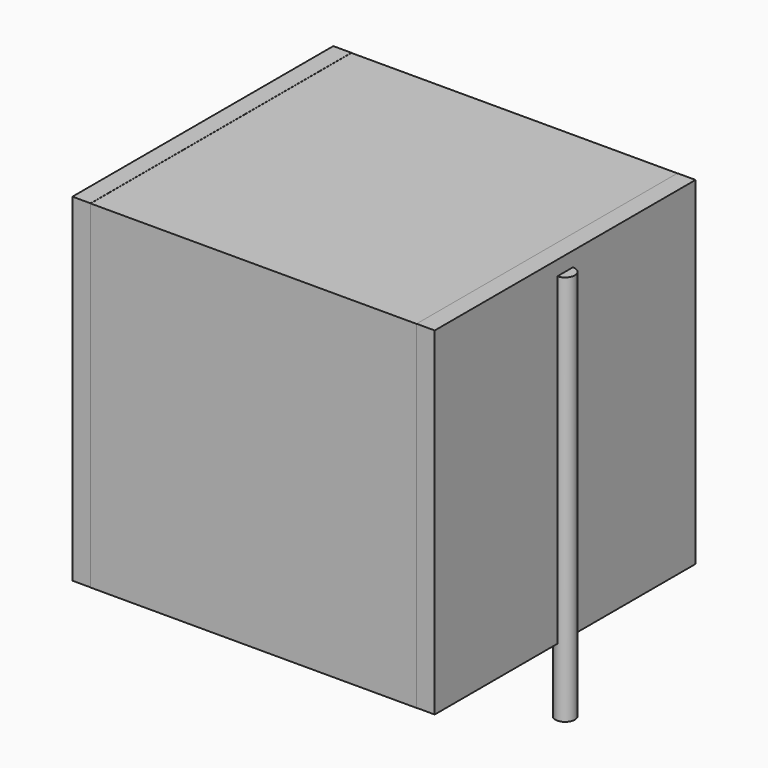
from build123d import *

# Parameters (mm, degrees)
SKETCH_W          = 13.5
SKETCH_H          = 13.5
PAD_DEPTH         = 14
SKETCH001_R       = 0.4
PAD001_DEPTH      = 13
PAD001_DEPTH_BACK = 3.2
SKETCH002_W       = 0.75
SKETCH002_H       = 13.5
PAD002_DEPTH      = 14


with BuildPart() as pad:
    # Sketch → Pad (new body)
    with BuildSketch(Plane.XY.offset(0.1)):
        with Locations((7.5, 0)):
            Rectangle(SKETCH_W, SKETCH_H)
    extrude(amount=PAD_DEPTH)


with BuildPart() as pad001:
    # Sketch001 → Pad001 (new body, two sides)
    with BuildSketch(Plane.XY.offset(0.5)) as pad001_sk:
        Circle(SKETCH001_R)
        with Locations((15, 0)):
            Circle(SKETCH001_R)
    extrude(amount=PAD001_DEPTH)
    extrude(pad001_sk.sketch, amount=-PAD001_DEPTH_BACK)


with BuildPart() as pad002:
    # Sketch002 → Pad002 (new body)
    with BuildSketch(Plane.XY.offset(0.105)):
        with Locations((0.375, 0)):
            Rectangle(SKETCH002_W, SKETCH002_H)
        with Locations((14.625, 0)):
            Rectangle(SKETCH002_W, SKETCH002_H)
    extrude(amount=PAD002_DEPTH)


solid = Compound([pad.part, pad001.part, pad002.part])
